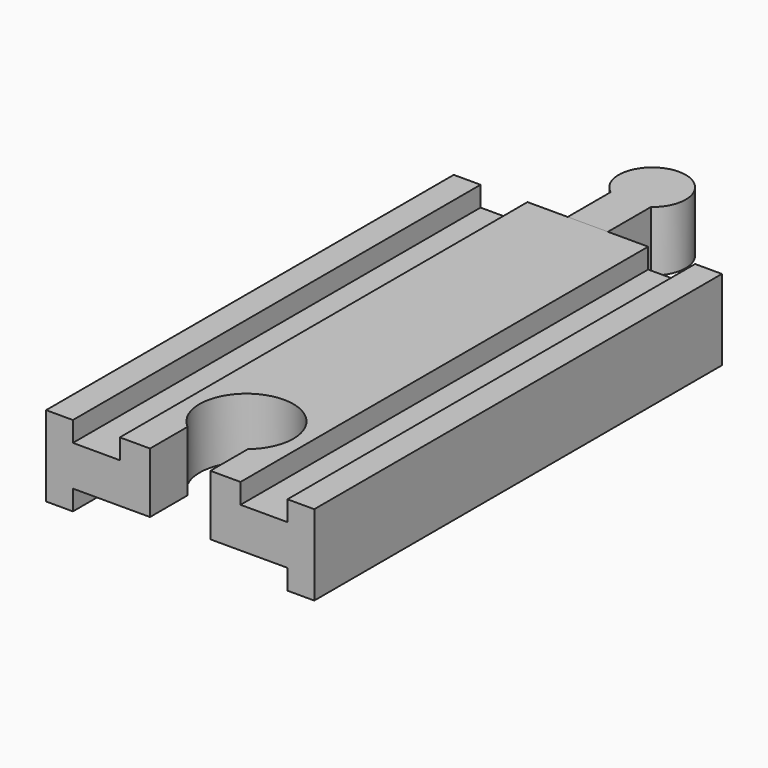
from build123d import *

# Parameters (mm, degrees)
PAD_DEPTH         = 76
POCKET_DEPTH      = 12.001
PAD001_DEPTH      = 6
PAD001_DEPTH_BACK = 3


with BuildPart() as body:
    # Sketch → Pad (new body)
    with BuildSketch(Plane.XZ):
        Polygon((-20, 6), (-20, -6), (-16, -6), (-16, -3), (-9, -3), (9, -3), (16, -3), (16, -6), (20, -6), (20, 6), (16, 6), (16, 3), (9, 3), (9, 6), (-9, 6), (-9, 3), (-16, 3), (-16, 6), align=None)
    extrude(amount=PAD_DEPTH)

    # Sketch002 (on Face14 of Pad) → Pocket (cut, through all)
    with BuildSketch(Plane(origin=(0, 0, 6), x_dir=(-1, 0, 0), z_dir=(0, 0, 1))):
        with BuildLine():
            Line((-4.5, 76), (4.5, 76))
            Line((4.5, 76), (4.5, 69))
            ThreePointArc((-4.5, 69), (0, 56.638097), (4.5, 69))
            Line((-4.5, 76), (-4.5, 69))
        make_face()
    extrude(amount=-POCKET_DEPTH, mode=Mode.SUBTRACT)


with BuildPart() as body001:
    # Sketch001 → Pad001 (new body, two sides)
    with BuildSketch(Plane.XY) as pad001_sk:
        with BuildLine():
            Line((-3, 0), (3, 0))
            Line((3, 0), (3, 8))
            ThreePointArc((3, 8), (0, 17), (-3, 8))
            Line((-3, 0), (-3, 8))
        make_face()
    extrude(amount=PAD001_DEPTH)
    extrude(pad001_sk.sketch, amount=-PAD001_DEPTH_BACK)


solid = Compound([body.part, body001.part])
